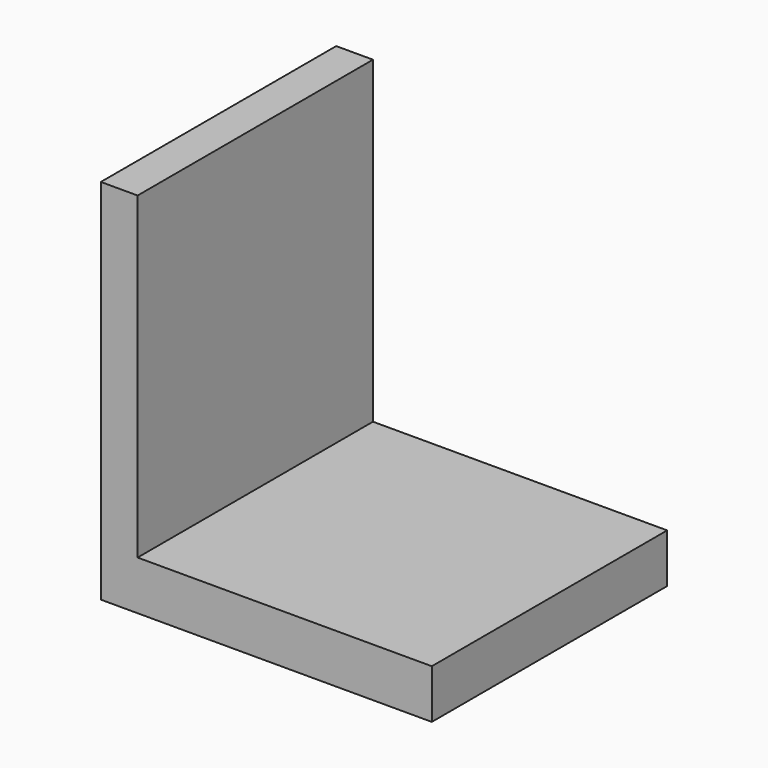
from build123d import *

# Parameters (mm, degrees)
F0_W     = 1200
F0_H     = 1200
F1_DEPTH = 200
F3_DEPTH = 1200


with BuildPart() as f1:
    # F0 (on Top) → F1 (new body)
    with BuildSketch(Plane.XY):
        with Locations((600, 600)):
            Rectangle(F0_W, F0_H)
    extrude(amount=-F1_DEPTH)

    # F2 (on face) → F3 (join)
    with BuildSketch(Plane.XZ):
        Polygon((-150, -200), (0, -200), (0, 0), (0, 1300), (-150, 1300), align=None)
    extrude(amount=-F3_DEPTH)


solid = f1.part
